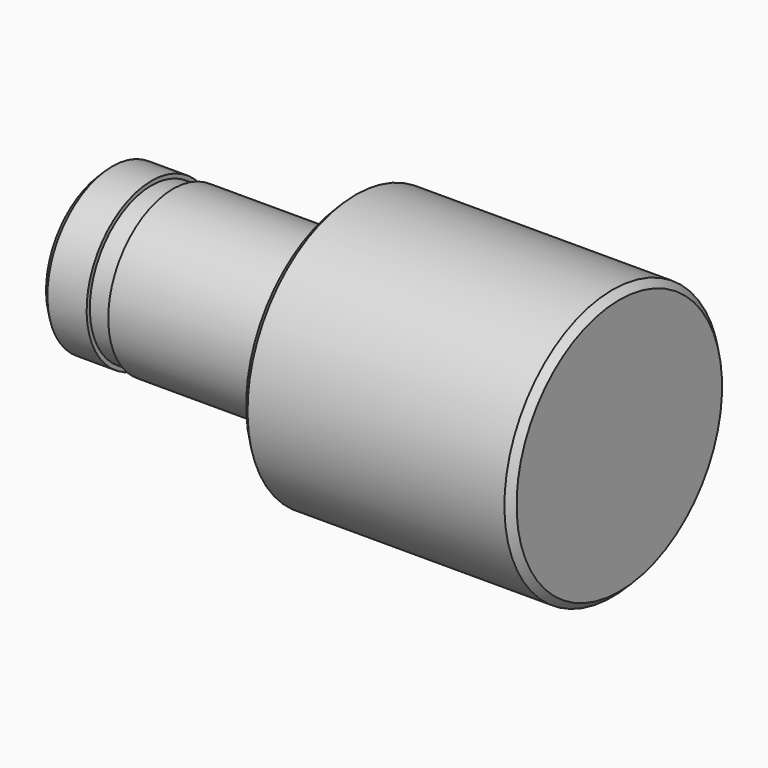
from build123d import *

# Parameters (mm, degrees)
F2_SIZE = 0.25


with BuildPart() as f1:
    # F0 (on Front) → F1 (revolve)
    with BuildSketch(Plane.XZ):
        Polygon((-19, 0), (0, 0), (0, 5), (-10, 5), (-10, 3), (-16.5, 3), (-16.5, 2.85), (-17.3, 2.85), (-17.3, 3), (-19, 3), align=None)
    revolve(axis=Axis((6.458773, 0, 0), (1, 0, 0)))

    # F2
    f2_edges = [f1.edges().sort_by_distance(p)[0] for p in [
        (0, 0, -5),
        (-10, 0, -5),
        (-5, 0, 5),
        (-19, 0, -3),
    ]]
    chamfer(f2_edges, length=F2_SIZE)


solid = f1.part
